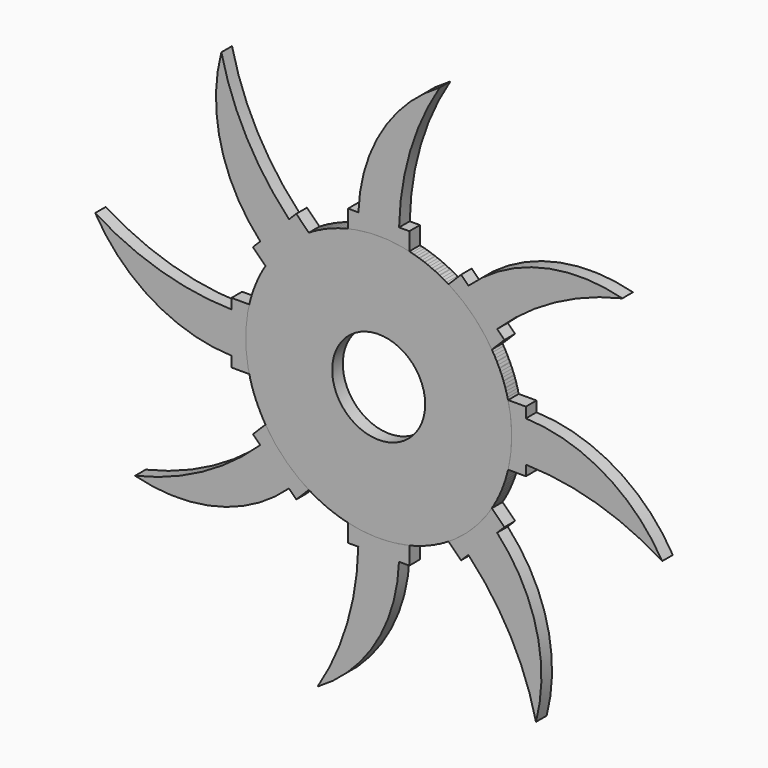
from build123d import *

# Parameters (mm, degrees)
F0_R     = 12.7
F1_DEPTH = 0.635
F3_DEPTH = 0.635
F4_COUNT = 8
F5_R     = 4.439905
F6_DEPTH = 0.635


with BuildPart() as f1:
    # F0 (on Front) → F1 (new body, symmetric)
    with BuildSketch(Plane.XZ):
        Circle(F0_R)
    extrude(amount=F1_DEPTH, both=True)

    # F2 (on Front) → F3 (join, symmetric)
    with BuildSketch(Plane.XZ):
        with BuildLine():
            ThreePointArc((1.949066, 14.05243), (3.004953, 20.822175), (5.827283, 27.065475))
            ThreePointArc((5.827283, 27.065475), (0.264713, 21.561766), (-1.935937, 14.05243))
            Line((-1.935937, 14.05243), (1.949066, 14.05243))
        make_face()
        Polygon((1.949066, 14.05243), (-1.935937, 14.05243), (-2.927434, 14.05243), (-2.927434, 10.705924), (2.927434, 10.705924), (2.927434, 14.05243), align=None)
    extrude(amount=F3_DEPTH, both=True)


with BuildPart() as f4_1:
    # F4: instance of F1
    add(f1.part.rotate(Axis((0, -0.635, 0), (0, 1, 0)), 1 * 360 / F4_COUNT))


with BuildPart() as f4_2:
    # F4: instance of F1
    add(f1.part.rotate(Axis((0, -0.635, 0), (0, 1, 0)), 2 * 360 / F4_COUNT))


with BuildPart() as f4_3:
    # F4: instance of F1
    add(f1.part.rotate(Axis((0, -0.635, 0), (0, 1, 0)), 3 * 360 / F4_COUNT))


with BuildPart() as f4_4:
    # F4: instance of F1
    add(f1.part.rotate(Axis((0, -0.635, 0), (0, 1, 0)), 4 * 360 / F4_COUNT))


with BuildPart() as f4_5:
    # F4: instance of F1
    add(f1.part.rotate(Axis((0, -0.635, 0), (0, 1, 0)), 5 * 360 / F4_COUNT))


with BuildPart() as f4_6:
    # F4: instance of F1
    add(f1.part.rotate(Axis((0, -0.635, 0), (0, 1, 0)), 6 * 360 / F4_COUNT))


with BuildPart() as f4_7:
    # F4: instance of F1
    add(f1.part.rotate(Axis((0, -0.635, 0), (0, 1, 0)), 7 * 360 / F4_COUNT))


with BuildPart() as f6_tool:
    # F5 (on Front) → F6 (new body, symmetric)
    with BuildSketch(Plane.XZ):
        Circle(F5_R)
    extrude(amount=F6_DEPTH, both=True)


with BuildPart() as f1_1:
    add(f1.part)

    # F6: cut by f6_tool
    add(f6_tool.part, mode=Mode.SUBTRACT)


with BuildPart() as f4_1_1:
    add(f4_1.part)

    # F6: cut by f6_tool
    add(f6_tool.part, mode=Mode.SUBTRACT)


with BuildPart() as f4_2_1:
    add(f4_2.part)

    # F6: cut by f6_tool
    add(f6_tool.part, mode=Mode.SUBTRACT)


with BuildPart() as f4_3_1:
    add(f4_3.part)

    # F6: cut by f6_tool
    add(f6_tool.part, mode=Mode.SUBTRACT)


with BuildPart() as f4_4_1:
    add(f4_4.part)

    # F6: cut by f6_tool
    add(f6_tool.part, mode=Mode.SUBTRACT)


with BuildPart() as f4_5_1:
    add(f4_5.part)

    # F6: cut by f6_tool
    add(f6_tool.part, mode=Mode.SUBTRACT)


with BuildPart() as f4_6_1:
    add(f4_6.part)

    # F6: cut by f6_tool
    add(f6_tool.part, mode=Mode.SUBTRACT)


with BuildPart() as f4_7_1:
    add(f4_7.part)

    # F6: cut by f6_tool
    add(f6_tool.part, mode=Mode.SUBTRACT)


solid = Compound([f1_1.part, f4_1_1.part, f4_2_1.part, f4_3_1.part, f4_4_1.part, f4_5_1.part, f4_6_1.part, f4_7_1.part])
